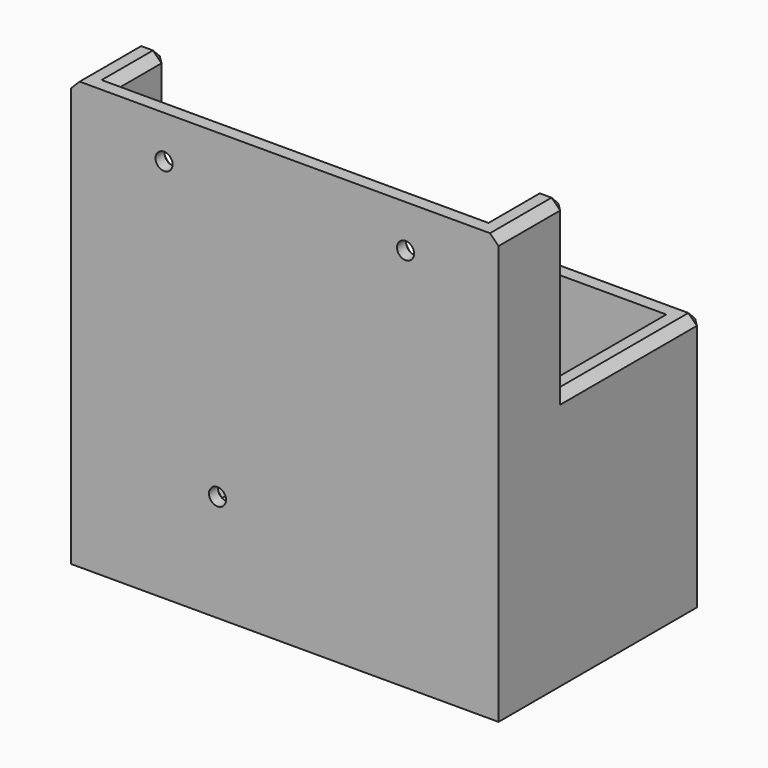
from build123d import *

# Parameters (mm, degrees)
F1_DEPTH       = 100
F2_W           = 86.5
F2_H           = 50
F3_DEPTH       = 90
F4_W           = 30
F4_H           = 45
F4_W_2         = 14
F4_H_2         = 25
F5_DEPTH       = 60
F7_D           = 4
F7_CSINK_D     = 8.7
F7_CSINK_ANGLE = 90
F8_SIZE        = 2
F9_SIZE        = 3


with BuildPart() as f1:
    # F0 (on Right) → F1 (new body)
    with BuildSketch(Plane.YZ):
        Polygon((-60, 0), (0, 0), (0, 60), (-40, 60), (-40, 100), (-60, 100), align=None)
        Polygon((-60, 0), (0, 0), (0, 60), (-40, 60), (-40, 100), (-60, 100), align=None)
    extrude(amount=F1_DEPTH)

    # F2 (on face) → F3 (cut)
    with BuildSketch(Plane.XY.offset(100)):
        with Locations((50, -30)):
            Rectangle(F2_W, F2_H)
    extrude(amount=-F3_DEPTH, mode=Mode.SUBTRACT)

    # F4 (on face) → F5 (cut)
    with BuildSketch(Plane(origin=(0, 0, 0), x_dir=(1, 0, 0), z_dir=(0, 0, -1))):
        with Locations((34.25, 22.5)):
            Rectangle(F4_W, F4_H)
        with Locations((74.25, 22.5)):
            Rectangle(F4_W_2, F4_H_2)
        with Locations((34.25, 22.5)):
            Rectangle(F4_W, F4_H)
    extrude(amount=-F5_DEPTH, mode=Mode.SUBTRACT)

    # F7 (through all)
    with Locations(Plane(origin=(0, -55, 0), x_dir=(-1, 0, 0), z_dir=(0, 1, 0))):
        with Locations((-78.25, 90), (-21.75, 90), (-34.25, 25)):
            CounterSinkHole(F7_D / 2, F7_CSINK_D / 2, counter_sink_angle=F7_CSINK_ANGLE)

    # F8
    f8_edges = [f1.edges().sort_by_distance(p)[0] for p in [
        (74.625, 0, 60),
        (100, 0, 30),
        (0, 0, 30),
        (19.25, 0, 30),
        (49.25, -25, 10),
        (34.25, -45, 10),
        (49.25, 0, 30),
        (100, -20, 60),
        (93.25, -22.5, 60),
        (6.75, -22.5, 60),
        (0, -20, 60),
        (9.625, 0, 60),
        (0, -40, 80),
        (6.75, -40, 80),
        (93.25, -40, 80),
        (100, -40, 80),
        (3.375, -40, 100),
        (0, -50, 100),
        (6.75, -47.5, 100),
        (93.25, -47.5, 100),
        (96.625, -40, 100),
        (100, -50, 100),
        (50, -55, 100),
        (19.25, -2.5, 60),
        (49.25, -2.5, 60),
        (19.25, -25, 10),
    ]]
    chamfer(f8_edges, length=F8_SIZE)

    # F9
    f9_edges = [f1.edges().sort_by_distance(p)[0] for p in [
        (67.25, -22.5, 10),
        (74.25, -10, 10),
        (81.25, -22.5, 10),
        (74.25, -35, 10),
    ]]
    chamfer(f9_edges, length=F9_SIZE)


solid = f1.part
